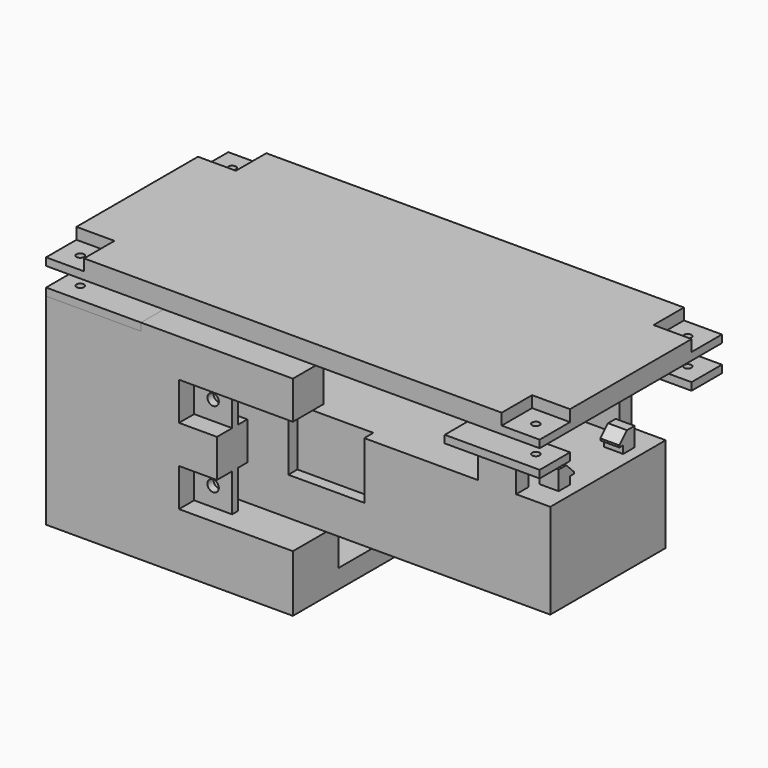
from build123d import *

# Parameters (mm, degrees)
CYLINDER002_R           = 1
CYLINDER002_DEPTH       = 20
BOX007_W                = 10
BOX007_H                = 10
BOX007_DEPTH            = 10
ARRAY005_X_COUNT        = 2
ARRAY005_X_PITCH        = 120
ARRAY005_Y_COUNT        = 2
ARRAY005_Y_PITCH        = 50
BOX002_W                = 130
BOX002_H                = 60
BOX002_DEPTH            = 5
BOX015_W                = 20
BOX015_H                = 3
BOX015_DEPTH            = 15
CYLINDER003_R           = 1
CYLINDER003_DEPTH       = 10
ARRAY009_X_COUNT        = 2
ARRAY009_X_PITCH        = 120
ARRAY009_Y_COUNT        = 2
ARRAY009_Y_PITCH        = 50
BOX011_W                = 25
BOX011_H                = 10
BOX011_DEPTH            = 2
ARRAY008_X_COUNT        = 2
ARRAY008_X_PITCH        = 105
ARRAY008_Y_COUNT        = 2
ARRAY008_Y_PITCH        = 50
BOX010_W                = 10
BOX010_H                = 15
BOX010_DEPTH            = 2
ARRAY007_X_COUNT        = 2
ARRAY007_X_PITCH        = 90
ARRAY007_Y_COUNT        = 2
ARRAY007_Y_PITCH        = 45
BOX009_W                = 10
BOX009_H                = 4
BOX009_DEPTH            = 15
ARRAY006_X_COUNT        = 2
ARRAY006_X_PITCH        = 90
ARRAY006_Y_COUNT        = 2
ARRAY006_Y_PITCH        = 34
BOX008_W                = 109
BOX008_H                = 38
BOX008_DEPTH            = 5
PAD001_DEPTH            = 20
SKETCH002_W             = 5
SKETCH002_H             = 11
PAD002_DEPTH            = 5
BOX013_W                = 17.5
BOX013_H                = 5
BOX013_DEPTH            = 2
BOX012_W                = 5
BOX012_H                = 5
BOX012_DEPTH            = 5
ARRAY010_X_COUNT        = 2
ARRAY010_X_PITCH        = 20
CHAMFER_SIZE            = 2.5
CHAMFER_PLACEMENT_ANGLE = 90
BOX016_W                = 65
BOX016_H                = 60
BOX016_DEPTH            = 60
BOX014_W                = 7
BOX014_H                = 15
BOX014_DEPTH            = 10
CYLINDER001_R           = 1
CYLINDER001_DEPTH       = 3
ARRAY004_X_COUNT        = 2
ARRAY004_X_PITCH        = 120
ARRAY004_Y_COUNT        = 2
ARRAY004_Y_PITCH        = 50
CYLINDER_R              = 1.5
CYLINDER_DEPTH          = 30
CYLINDER_ROLL_ANGLE     = 90
ARRAY003_X_COUNT        = 2
ARRAY003_X_PITCH        = 50
ARRAY003_Y_COUNT        = 2
ARRAY003_Y_PITCH        = 20
BOX006_W                = 25
BOX006_H                = 10
BOX006_DEPTH            = 2
ARRAY002_X_COUNT        = 2
ARRAY002_X_PITCH        = 105
ARRAY002_Y_COUNT        = 2
ARRAY002_Y_PITCH        = 50
BOX005_W                = 10
BOX005_H                = 10
BOX005_DEPTH            = 10
ARRAY001_X_COUNT        = 2
ARRAY001_X_PITCH        = 50
BOX004_W                = 10
BOX004_H                = 2
BOX004_DEPTH            = 10
ARRAY_X_COUNT           = 2
ARRAY_X_PITCH           = 50
ARRAY_Y_COUNT           = 2
ARRAY_Y_PITCH           = 20
BOX003_W                = 60
BOX003_H                = 10
BOX003_DEPTH            = 30
BOX001_W                = 120
BOX001_H                = 40
BOX001_DEPTH            = 50
BOX_W                   = 130
BOX_H                   = 60
BOX_DEPTH               = 55
PAD_DEPTH               = 10


with BuildPart() as cilindro002:
    # Cylinder002 → Cylinder002 (new body)
    with BuildSketch(Plane(origin=(5, 5, -5), x_dir=(1, 0, 0), z_dir=(0, 0, 1))):
        Circle(CYLINDER002_R)
    extrude(amount=CYLINDER002_DEPTH)


with BuildPart() as huecostapa:
    # Box007 → Box007 (new body)
    with BuildSketch(Plane.XY):
        with Locations((5, 5)):
            Rectangle(BOX007_W, BOX007_H)
    extrude(amount=BOX007_DEPTH)

    # Fusion: union Cilindro002
    add(cilindro002.part)

    # Array005 X: HuecosTapa ×2


with BuildPart() as huecostapa_1:
    add(huecostapa.part)
    with Locations(*[(i * ARRAY005_X_PITCH, 0, 0) for i in range(1, ARRAY005_X_COUNT)]):
        add(huecostapa.part)

    # Array005 Y: HuecosTapa ×2


with BuildPart() as huecostapa_2:
    add(huecostapa_1.part)
    with Locations(*[(0, i * ARRAY005_Y_PITCH, 0) for i in range(1, ARRAY005_Y_COUNT)]):
        add(huecostapa_1.part)


with BuildPart() as huecostapa_3:
    # Array005 placement: moved
    add(huecostapa_2.part.moved(Location((0, 0, 62))))


with BuildPart() as tapa:
    # Box002 → Box002 (new body)
    with BuildSketch(Plane.XY.offset(60)):
        with Locations((65, 30)):
            Rectangle(BOX002_W, BOX002_H)
    extrude(amount=BOX002_DEPTH)

    # Cut007: cut HuecosTapa
    add(huecostapa_3.part, mode=Mode.SUBTRACT)


with BuildPart() as hueco_tornillo_conector:
    # Box015 → Box015 (new body)
    with BuildSketch(Plane(origin=(55, 11, 25), x_dir=(1, 0, 0), z_dir=(0, 0, 1))):
        with Locations((10, 1.5)):
            Rectangle(BOX015_W, BOX015_H)
    extrude(amount=BOX015_DEPTH)


with BuildPart() as array009:
    # Cylinder003 → Cylinder003 (new body)
    with BuildSketch(Plane.XY):
        Circle(CYLINDER003_R)
    extrude(amount=CYLINDER003_DEPTH)

    # Array009 X: Array009 ×2


with BuildPart() as array009_1:
    add(array009.part)
    with Locations(*[(i * ARRAY009_X_PITCH, 0, 0) for i in range(1, ARRAY009_X_COUNT)]):
        add(array009.part)

    # Array009 Y: Array009 ×2


with BuildPart() as array009_2:
    add(array009_1.part)
    with Locations(*[(0, i * ARRAY009_Y_PITCH, 0) for i in range(1, ARRAY009_Y_COUNT)]):
        add(array009_1.part)


with BuildPart() as array009_3:
    # Array009 placement: moved
    add(array009_2.part.moved(Location((-10, -6, 13))))


with BuildPart() as array008:
    # Box011 → Box011 (new body)
    with BuildSketch(Plane(origin=(-15, -11, 18), x_dir=(1, 0, 0), z_dir=(0, 0, 1))):
        with Locations((12.5, 5)):
            Rectangle(BOX011_W, BOX011_H)
    extrude(amount=BOX011_DEPTH)

    # Array008 X: Array008 ×2


with BuildPart() as array008_1:
    add(array008.part)
    with Locations(*[(i * ARRAY008_X_PITCH, 0, 0) for i in range(1, ARRAY008_X_COUNT)]):
        add(array008.part)

    # Array008 Y: Array008 ×2


with BuildPart() as array008_2:
    add(array008_1.part)
    with Locations(*[(0, i * ARRAY008_Y_PITCH, 0) for i in range(1, ARRAY008_Y_COUNT)]):
        add(array008_1.part)


with BuildPart() as array007:
    # Box010 → Box010 (new body)
    with BuildSketch(Plane(origin=(0, -11, 18), x_dir=(1, 0, 0), z_dir=(0, 0, 1))):
        with Locations((5, 7.5)):
            Rectangle(BOX010_W, BOX010_H)
    extrude(amount=BOX010_DEPTH)

    # Array007 X: Array007 ×2


with BuildPart() as array007_1:
    add(array007.part)
    with Locations(*[(i * ARRAY007_X_PITCH, 0, 0) for i in range(1, ARRAY007_X_COUNT)]):
        add(array007.part)

    # Array007 Y: Array007 ×2


with BuildPart() as array007_2:
    add(array007_1.part)
    with Locations(*[(0, i * ARRAY007_Y_PITCH, 0) for i in range(1, ARRAY007_Y_COUNT)]):
        add(array007_1.part)


with BuildPart() as array006:
    # Box009 → Box009 (new body)
    with BuildSketch(Plane.XY.offset(5)):
        with Locations((5, 2)):
            Rectangle(BOX009_W, BOX009_H)
    extrude(amount=BOX009_DEPTH)

    # Array006 X: Array006 ×2


with BuildPart() as array006_1:
    add(array006.part)
    with Locations(*[(i * ARRAY006_X_PITCH, 0, 0) for i in range(1, ARRAY006_X_COUNT)]):
        add(array006.part)

    # Array006 Y: Array006 ×2


with BuildPart() as array006_2:
    add(array006_1.part)
    with Locations(*[(0, i * ARRAY006_Y_PITCH, 0) for i in range(1, ARRAY006_Y_COUNT)]):
        add(array006_1.part)


with BuildPart() as cut008:
    # Box008 → Box008 (new body)
    with BuildSketch(Plane.XY):
        with Locations((54.5, 19)):
            Rectangle(BOX008_W, BOX008_H)
    extrude(amount=BOX008_DEPTH)

    # Fusion001: union Array006
    add(array006_2.part)

    # Fusion002: union Array007
    add(array007_2.part)

    # Fusion003: union Array008
    add(array008_2.part)

    # Cut008: cut Array009
    add(array009_3.part, mode=Mode.SUBTRACT)


with BuildPart() as cut008_1:
    # Cut008 placement: moved
    add(cut008.part.moved(Location((0, 0, 20))))


with BuildPart() as cut011:
    # Sketch001 → Pad001 (new body)
    with BuildSketch(Plane.XY):
        Polygon((0, 24), (5, 24), (5, 34), (105, 34), (105, 4), (5, 4), (5, 14), (0, 14), (0, 0), (109, 0), (109, 38), (0, 38), align=None)
    extrude(amount=PAD001_DEPTH)

    # Fusion004: union Cut008
    add(cut008_1.part)


with BuildPart() as cut011_1:
    # Fusion004 placement: moved
    add(cut011.part.moved(Location((15, 11, 15))))

    # Sketch002 (on Face19 of Fusion004) → Pad002 (new body)
    with BuildSketch(Plane(origin=(15, 11, 40), x_dir=(1, 0, 0), z_dir=(0, 0, 1))):
        with Locations((84.75, 19)):
            Rectangle(SKETCH002_W, SKETCH002_H)
    extrude(amount=PAD002_DEPTH)

    # Cut011: cut Hueco_Tornillo_Conector
    add(hueco_tornillo_conector.part, mode=Mode.SUBTRACT)


with BuildPart() as clavijas_hueco:
    # Box013 → Box013 (new body)
    with BuildSketch(Plane(origin=(3.75, 0, 0), x_dir=(1, 0, 0), z_dir=(0, 0, 1))):
        with Locations((8.75, 2.5)):
            Rectangle(BOX013_W, BOX013_H)
    extrude(amount=BOX013_DEPTH)


with BuildPart() as soporte:
    # Box012 → Box012 (new body)
    with BuildSketch(Plane.XY):
        with Locations((2.5, 2.5)):
            Rectangle(BOX012_W, BOX012_H)
    extrude(amount=BOX012_DEPTH)

    # Array010 X: Soporte ×2


with BuildPart() as soporte_1:
    add(soporte.part)
    with Locations(*[(i * ARRAY010_X_PITCH, 0, 0) for i in range(1, ARRAY010_X_COUNT)]):
        add(soporte.part)

    # Cut009: cut Clavijas_hueco
    add(clavijas_hueco.part, mode=Mode.SUBTRACT)

    # Chamfer
    chamfer_edges = [soporte_1.edges().sort_by_distance(p)[0] for p in [
        (5, 2.5, 5),
        (20, 2.5, 5),
    ]]
    chamfer(chamfer_edges, length=CHAMFER_SIZE)


with BuildPart() as soporte_2:
    # Chamfer placement: moved
    add(soporte_1.part.moved(Location((121, 17.5, 40))).rotate(Axis((121, 17.5, 40), (0, 0, 1)), CHAMFER_PLACEMENT_ANGLE))

    # Fusion005: union Cut011
    add(cut011_1.part)


with BuildPart() as corte:
    # Box016 → Box016 (new body)
    with BuildSketch(Plane(origin=(65, 0, 0), x_dir=(1, 0, 0), z_dir=(0, 0, 1))):
        with Locations((32.5, 30)):
            Rectangle(BOX016_W, BOX016_H)
    extrude(amount=BOX016_DEPTH)


with BuildPart() as huecousb:
    # Box014 → Box014 (new body)
    with BuildSketch(Plane(origin=(124, 22.5, 41), x_dir=(1, 0, 0), z_dir=(0, 0, 1))):
        with Locations((3.5, 7.5)):
            Rectangle(BOX014_W, BOX014_H)
    extrude(amount=BOX014_DEPTH)


with BuildPart() as array004:
    # Cylinder001 → Cylinder001 (new body)
    with BuildSketch(Plane.XY):
        Circle(CYLINDER001_R)
    extrude(amount=CYLINDER001_DEPTH)

    # Array004 X: Array004 ×2


with BuildPart() as array004_1:
    add(array004.part)
    with Locations(*[(i * ARRAY004_X_PITCH, 0, 0) for i in range(1, ARRAY004_X_COUNT)]):
        add(array004.part)

    # Array004 Y: Array004 ×2


with BuildPart() as array004_2:
    add(array004_1.part)
    with Locations(*[(0, i * ARRAY004_Y_PITCH, 0) for i in range(1, ARRAY004_Y_COUNT)]):
        add(array004_1.part)


with BuildPart() as array004_3:
    # Array004 placement: moved
    add(array004_2.part.moved(Location((5, 5, 51))))


with BuildPart() as array003:
    # Cylinder → Cylinder (new body)
    with BuildSketch(Plane.XY):
        Circle(CYLINDER_R)
    extrude(amount=CYLINDER_DEPTH)


with BuildPart() as array003_1:
    # Cylinder roll: moved
    add(array003.part.rotate(Axis((0, 0, 0), (1, 0, 0)), CYLINDER_ROLL_ANGLE))


with BuildPart() as array003_2:
    # Cylinder placement: moved
    add(array003_1.part)

    # Array003 X: Array003 ×2


with BuildPart() as array003_3:
    add(array003_2.part)
    with Locations(*[(i * ARRAY003_X_PITCH, 0, 0) for i in range(1, ARRAY003_X_COUNT)]):
        add(array003_2.part)

    # Array003 Y: Array003 ×2


with BuildPart() as array003_4:
    add(array003_3.part)
    with Locations(*[(0, 0, i * ARRAY003_Y_PITCH) for i in range(1, ARRAY003_Y_COUNT)]):
        add(array003_3.part)


with BuildPart() as array003_5:
    # Array003 placement: moved
    add(array003_4.part.moved(Location((40, 15, 20))))


with BuildPart() as array002:
    # Box006 → Box006 (new body)
    with BuildSketch(Plane.XY):
        with Locations((12.5, 5)):
            Rectangle(BOX006_W, BOX006_H)
    extrude(amount=BOX006_DEPTH)

    # Array002 X: Array002 ×2


with BuildPart() as array002_1:
    add(array002.part)
    with Locations(*[(i * ARRAY002_X_PITCH, 0, 0) for i in range(1, ARRAY002_X_COUNT)]):
        add(array002.part)

    # Array002 Y: Array002 ×2


with BuildPart() as array002_2:
    add(array002_1.part)
    with Locations(*[(0, i * ARRAY002_Y_PITCH, 0) for i in range(1, ARRAY002_Y_COUNT)]):
        add(array002_1.part)


with BuildPart() as array002_3:
    # Array002 placement: moved
    add(array002_2.part.moved(Location((0, 0, 53))))


with BuildPart() as array001:
    # Box005 → Box005 (new body)
    with BuildSketch(Plane(origin=(35, 0, 25), x_dir=(1, 0, 0), z_dir=(0, 0, 1))):
        with Locations((5, 5)):
            Rectangle(BOX005_W, BOX005_H)
    extrude(amount=BOX005_DEPTH)

    # Array001 X: Array001 ×2


with BuildPart() as array001_1:
    add(array001.part)
    with Locations(*[(i * ARRAY001_X_PITCH, 0, 0) for i in range(1, ARRAY001_X_COUNT)]):
        add(array001.part)


with BuildPart() as array:
    # Box004 → Box004 (new body)
    with BuildSketch(Plane.XY):
        with Locations((5, 1)):
            Rectangle(BOX004_W, BOX004_H)
    extrude(amount=BOX004_DEPTH)

    # Array X: Array ×2


with BuildPart() as array_1:
    add(array.part)
    with Locations(*[(i * ARRAY_X_PITCH, 0, 0) for i in range(1, ARRAY_X_COUNT)]):
        add(array.part)

    # Array Y: Array ×2


with BuildPart() as array_2:
    add(array_1.part)
    with Locations(*[(0, 0, i * ARRAY_Y_PITCH) for i in range(1, ARRAY_Y_COUNT)]):
        add(array_1.part)


with BuildPart() as array_3:
    # Array placement: moved
    add(array_2.part.moved(Location((0, 5, 0))))


with BuildPart() as cut002:
    # Box003 → Box003 (new body)
    with BuildSketch(Plane.XY):
        with Locations((30, 5)):
            Rectangle(BOX003_W, BOX003_H)
    extrude(amount=BOX003_DEPTH)

    # Cut001: cut Array
    add(array_3.part, mode=Mode.SUBTRACT)


with BuildPart() as cut002_1:
    # Cut001 placement: moved
    add(cut002.part.moved(Location((35, 0, 15))))

    # Cut002: cut Array001
    add(array001_1.part, mode=Mode.SUBTRACT)


with BuildPart() as interior:
    # Box001 → Box001 (new body)
    with BuildSketch(Plane(origin=(5, 10, 5), x_dir=(1, 0, 0), z_dir=(0, 0, 1))):
        with Locations((60, 20)):
            Rectangle(BOX001_W, BOX001_H)
    extrude(amount=BOX001_DEPTH)


with BuildPart() as obj1:
    # Box → Box (new body)
    with BuildSketch(Plane.XY):
        with Locations((65, 30)):
            Rectangle(BOX_W, BOX_H)
    extrude(amount=BOX_DEPTH)

    # Cut: cut Interior
    add(interior.part, mode=Mode.SUBTRACT)

    # Cut003: cut Cut002
    add(cut002_1.part, mode=Mode.SUBTRACT)

    # Cut004: cut Array002
    add(array002_3.part, mode=Mode.SUBTRACT)

    # Sketch (on Face54 of Cut004) → Pad (new body)
    with BuildSketch(Plane.XY.offset(5)):
        Polygon((15, 35), (20, 35), (20, 45), (120, 45), (120, 15), (20, 15), (20, 25), (15, 25), (15, 10), (125, 10), (125, 50), (15, 50), align=None)
    extrude(amount=PAD_DEPTH)

    # Cut005: cut Array003
    add(array003_5.part, mode=Mode.SUBTRACT)

    # Cut006: cut Array004
    add(array004_3.part, mode=Mode.SUBTRACT)

    # Cut010: cut HuecoUSB
    add(huecousb.part, mode=Mode.SUBTRACT)

    # Cut012: cut Corte
    add(corte.part, mode=Mode.SUBTRACT)


solid = Compound([tapa.part, soporte_2.part, obj1.part])
